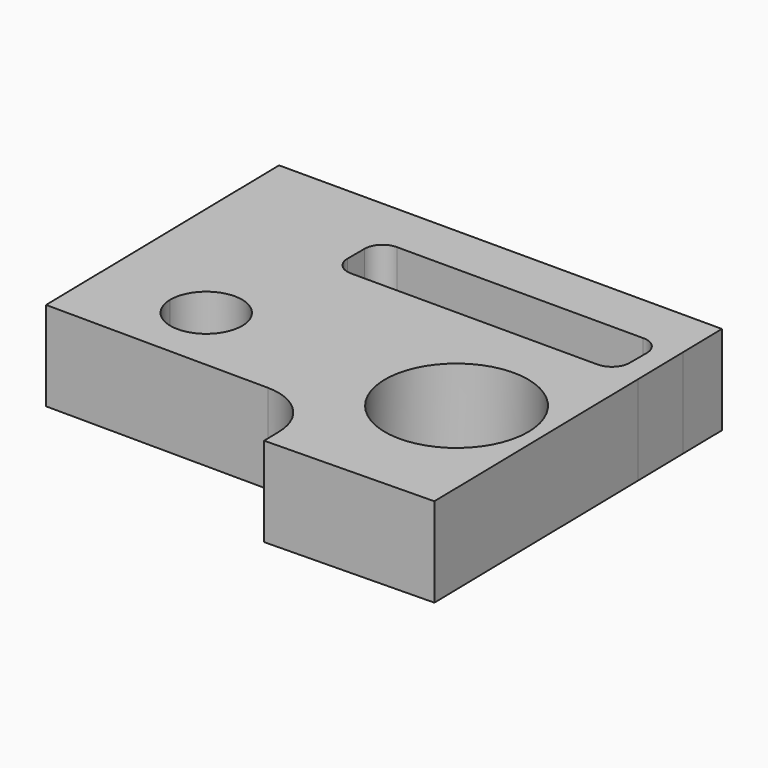
from build123d import *

# Parameters (mm, degrees)
F0_R     = 20
F1_DEPTH = 25


with BuildPart() as f1:
    # F0 (on Top) → F1 (new body)
    with BuildSketch(Plane.XY):
        with BuildLine():
            ThreePointArc((-60.707048, -16.170189), (-70.798248, -6.170605), (-80.705385, -16.352581))
            ThreePointArc((-80.705385, -16.352581), (-70.615848, -26.169773), (-60.707048, -16.170189))
        make_face()
        with BuildLine():
            Line((17.155273, 48.271821), (-101.887608, 48.271821))
            Line((-101.887608, 48.271821), (-100.702058, -16.717366))
            Line((-100.702058, -16.717366), (-100.365747, -35.153195))
            Line((-100.365747, -35.153195), (-38.009589, -35.493795))
            ThreePointArc((-38.009589, -35.493795), (-27.553158, -39.819167), (-23.094029, -50.219261))
            Line((-23.094029, -50.219261), (-22.996154, -55.570459))
            Line((-22.996154, -55.570459), (23.995987, -54.710954))
            Line((23.995987, -54.710954), (22.661012, 18.276838))
            Line((22.661012, 18.276838), (22.368415, 34.274162))
            Line((22.368415, 34.274162), (22.112392, 48.271821))
            Line((22.112392, 48.271821), (17.155273, 48.271821))
        make_face()
        with BuildLine():
            ThreePointArc((-60.707048, -16.170189), (-70.615848, -26.169773), (-80.705385, -16.352581))
            ThreePointArc((-80.705385, -16.352581), (-70.798248, -6.170605), (-60.707048, -16.170189))
        make_face(mode=Mode.SUBTRACT)
        with Locations((-0.478208, -16.36657)):
            Circle(F0_R, mode=Mode.SUBTRACT)
        with BuildLine():
            ThreePointArc((11.401503, 34.126978), (14.937037, 32.662512), (16.401503, 29.126978))
            Line((16.401503, 29.126978), (16.401503, 23.126978))
            ThreePointArc((16.401503, 23.126978), (14.937037, 19.591444), (11.401503, 18.126978))
            Line((11.401503, 18.126978), (-57.598497, 18.126978))
            ThreePointArc((-57.598497, 18.126978), (-61.134031, 19.591444), (-62.598497, 23.126978))
            Line((-62.598497, 23.126978), (-62.598497, 29.126978))
            ThreePointArc((-62.598497, 29.126978), (-61.134031, 32.662512), (-57.598497, 34.126978))
            Line((-57.598497, 34.126978), (11.401503, 34.126978))
        make_face(mode=Mode.SUBTRACT)
    extrude(amount=F1_DEPTH)


solid = f1.part
